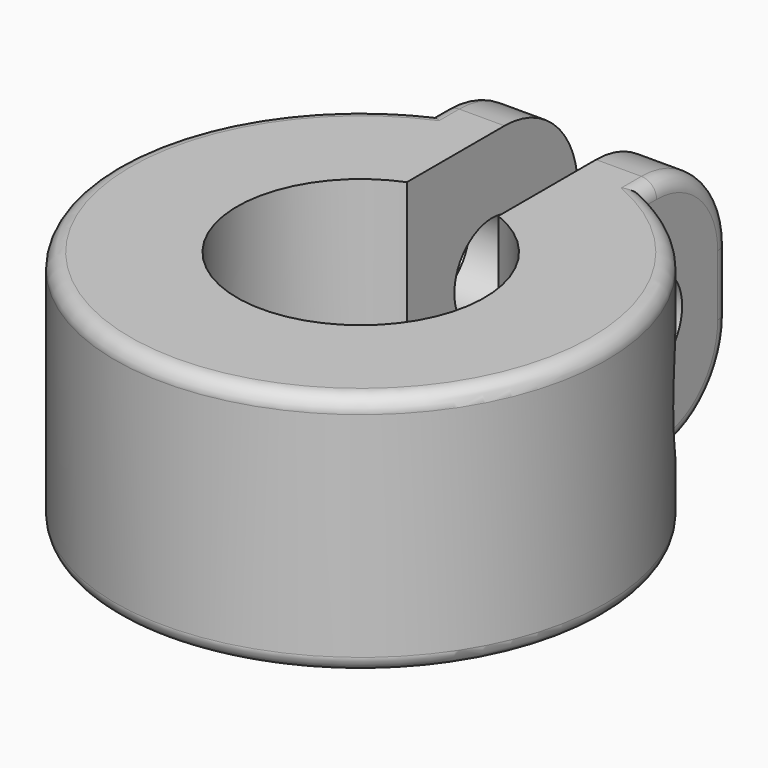
from build123d import *

# Parameters (mm, degrees)
F1_DEPTH = 8
F2_R     = 1.55
F3_DEPTH = 12.5
F4_DEPTH = 1
F6_DEPTH = 25
F8_DEPTH = 25
F9_R     = 3
F10_R    = 3
F11_R    = 0.5


with BuildPart() as f1:
    # F0 (on Top) → F1 (new body)
    with BuildSketch(Plane.XY):
        with BuildLine():
            ThreePointArc((1.5, 3.7619808612), (0, -4.05), (-1.5, 3.7619808612))
            Line((-1.5, 3.7619808612), (-1.5, 7.909013845))
            Line((-1.5, 7.909013845), (-1.5, 9.7619808612))
            Line((-1.5, 9.7619808612), (-3.4838211723, 9.7619808612))
            Line((-3.4838211723, 9.7619808612), (-3.4838211723, 7.2570992855))
            ThreePointArc((-3.4838211723, 7.2570992855), (0, -8.05), (3.4838211723, 7.2570992855))
            Line((3.4838211723, 7.2570992855), (3.4838211723, 9.7619808612))
            Line((3.4838211723, 9.7619808612), (1.5, 9.7619808612))
            Line((1.5, 9.7619808612), (1.5, 7.909013845))
            Line((1.5, 7.909013845), (1.5, 3.7619808612))
        make_face()
    extrude(amount=F1_DEPTH)

    # F2 (on Right) → F3 (cut, symmetric)
    with BuildSketch(Plane.YZ):
        with Locations((7.2570992855, 4)):
            Circle(F2_R)
    extrude(amount=F3_DEPTH, both=True, mode=Mode.SUBTRACT)

    # F4 (add): faces of the model
    f4_faces = [f1.faces().sort_by_distance(p)[0] for p in [
        (2.4919105861, 9.7619808612, 4),
        (-2.4919105861, 9.7619808612, 4),
    ]]
    extrude(f4_faces, amount=F4_DEPTH)

    # F5 (on face) → F6 (cut)
    with BuildSketch(Plane.YZ.offset(3.4838211723)):
        with BuildLine():
            Line((7.2570992855, 5.55), (7.2570992855, 7))
            ThreePointArc((7.2570992855, 7), (4.2570992855, 4), (7.2570992855, 1))
            Line((7.2570992855, 1), (7.2570992855, 2.45))
            ThreePointArc((7.2570992855, 2.45), (8.3531147963, 2.9039844892), (8.8070992855, 4))
            ThreePointArc((8.8070992855, 4), (8.3531147963, 5.0960155108), (7.2570992855, 5.55))
        make_face()
    extrude(amount=F6_DEPTH, mode=Mode.SUBTRACT)

    # F7 (on face) → F8 (cut)
    with BuildSketch(Plane(origin=(-3.4838211723, 0, 0), x_dir=(0, -1, 0), z_dir=(-1, 0, 0))):
        with BuildLine():
            ThreePointArc((-7.2570992855, 1), (-5.1357789419, 1.8786796564), (-4.2570992855, 4))
            ThreePointArc((-4.2570992855, 4), (-5.1357789419, 6.1213203436), (-7.2570992855, 7))
            Line((-7.2570992855, 7), (-7.2570992855, 5.55))
            ThreePointArc((-7.2570992855, 5.55), (-8.3531147963, 5.0960155108), (-8.8070992855, 4))
            ThreePointArc((-8.8070992855, 4), (-8.3531147963, 2.9039844892), (-7.2570992855, 2.45))
            Line((-7.2570992855, 2.45), (-7.2570992855, 1))
        make_face()
    extrude(amount=F8_DEPTH, mode=Mode.SUBTRACT)

    # F9
    f9_edges = [f1.edges().sort_by_distance(p)[0] for p in [
        (2.491911, 10.761981, 8),
        (2.491911, 10.761981, 0),
    ]]
    fillet(f9_edges, radius=F9_R)

    # F10
    f10_edges = [f1.edges().sort_by_distance(p)[0] for p in [
        (-2.491911, 10.761981, 8),
        (-2.491911, 10.761981, 0),
    ]]
    fillet(f10_edges, radius=F10_R)

    # F11
    f11_edges = [f1.edges().sort_by_distance(p)[0] for p in [
        (-3.483821, 9.883301, 7.12132),
        (-3.483821, 7.50954, 8),
        (0, -8.05, 8),
        (3.483821, 7.50954, 8),
        (3.483821, 9.883301, 7.12132),
        (3.483821, 10.761981, 4),
        (-3.483821, 10.761981, 4),
        (-3.483821, 9.883301, 0.87868),
        (-3.483821, 7.50954, 0),
        (0, -8.05, 0),
        (3.483821, 7.50954, 0),
        (3.483821, 9.883301, 0.87868),
    ]]
    fillet(f11_edges, radius=F11_R)


solid = f1.part
